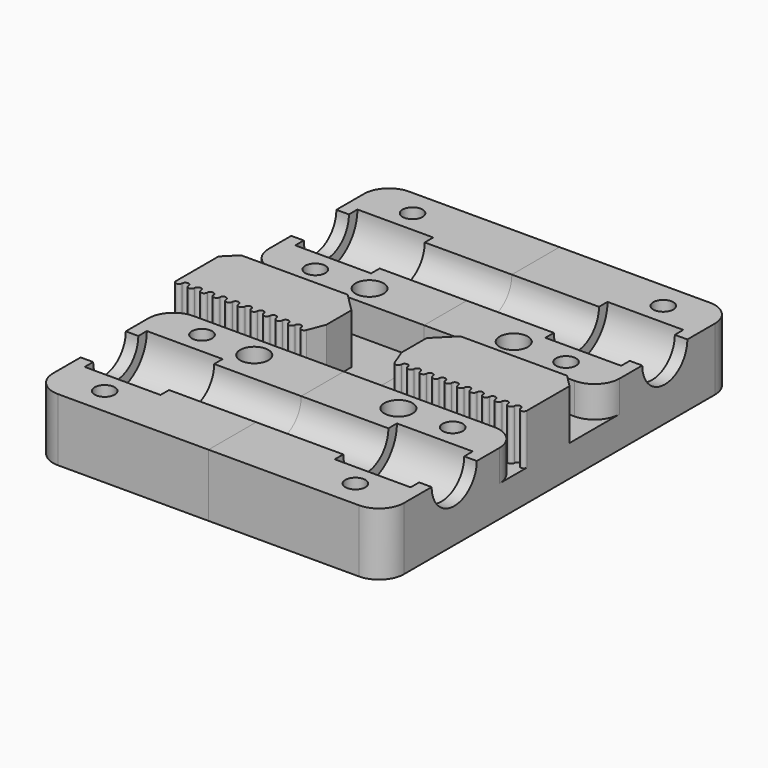
from build123d import *

# Parameters (mm, degrees)
BOX_W           = 28
BOX_H           = 35
BOX_DEPTH       = 10
POCKET_DEPTH    = 14.1
PAD_DEPTH       = 2
SKETCH002_R     = 4.5
POCKET001_DEPTH = 28.001
SKETCH003_R     = 2.25
SKETCH003_R_2   = 1.6
POCKET002_DEPTH = 10.001
SKETCH004_R     = 2.9
POCKET003_DEPTH = 3.5
SKETCH005_W     = 28
SKETCH005_H     = 4
POCKET004_DEPTH = 5
SKETCH006_W     = 6
SKETCH006_H     = 4
POCKET005_DEPTH = 5
SKETCH007_W     = 22
SKETCH007_H     = 4
PAD001_DEPTH    = 3
PAD002_DEPTH    = 8
FILLET_R        = 4
FILLET001_R     = 4
CHAMFER_SIZE    = 2
CHAMFER001_SIZE = 3
FILLET002_R     = 4
FILLET003_R     = 4


with BuildPart() as pad001:
    # Box → Box (new body)
    with BuildSketch(Plane.XY):
        with Locations((14, 17.5)):
            Rectangle(BOX_W, BOX_H)
    extrude(amount=BOX_DEPTH)

    # Sketch → Pocket (cut)
    with BuildSketch(Plane.YZ.offset(28)):
        with BuildLine():
            ThreePointArc((14.8, 10), (21, 3.8), (27.2, 10))
            Line((14.8, 10), (27.2, 10))
        make_face()
    extrude(amount=-POCKET_DEPTH, mode=Mode.SUBTRACT)

    # Sketch001 → Pad (new body)
    with BuildSketch(Plane.YZ.offset(28)):
        with BuildLine():
            ThreePointArc((14.8, 10), (21, 3.8), (27.2, 10))
            Line((14.8, 10), (27.2, 10))
        make_face()
    extrude(amount=-PAD_DEPTH)

    # Sketch002 → Pocket001 (cut, through all)
    with BuildSketch(Plane.YZ.offset(28)):
        with Locations((21, 10)):
            Circle(SKETCH002_R)
    extrude(amount=-POCKET001_DEPTH, mode=Mode.SUBTRACT)

    # Sketch003 → Pocket002 (cut, through all)
    with BuildSketch(Plane.XY.offset(10)):
        with Locations((11.5, 11.5)):
            Circle(SKETCH003_R)
        with Locations((20, 30.7)):
            Circle(SKETCH003_R_2)
        with Locations((20, 11.3)):
            Circle(SKETCH003_R_2)
    extrude(amount=-POCKET002_DEPTH, mode=Mode.SUBTRACT)

    # Sketch004 → Pocket003 (cut)
    with BuildSketch(Plane(origin=(0, 0, 0), x_dir=(1, 0, 0), z_dir=(0, 0, -1))):
        with Locations((20, -10.8)):
            Circle(SKETCH004_R)
        with Locations((20, -31.2)):
            Circle(SKETCH004_R)
    extrude(amount=-POCKET003_DEPTH, mode=Mode.SUBTRACT)

    # Sketch005 → Pocket004 (cut)
    with BuildSketch(Plane.XY.offset(10)):
        with Locations((14, 6)):
            Rectangle(SKETCH005_W, SKETCH005_H)
    extrude(amount=-POCKET004_DEPTH, mode=Mode.SUBTRACT)

    # Sketch006 → Pocket005 (cut)
    with BuildSketch(Plane.XY.offset(10)):
        with Locations((3, 2)):
            Rectangle(SKETCH006_W, SKETCH006_H)
    extrude(amount=-POCKET005_DEPTH, mode=Mode.SUBTRACT)

    # Sketch007 → Pad001 (new body)
    with BuildSketch(Plane.XY.offset(10)):
        with Locations((17, 2)):
            Rectangle(SKETCH007_W, SKETCH007_H)
    extrude(amount=PAD001_DEPTH)


with BuildPart() as part_mirroring:
    # Part__Mirroring: instance of Pad001
    add(pad001.part.mirror(Plane(origin=(0, 0, 0), x_dir=(1, 0, 0), z_dir=(0, 1, 0))))


with BuildPart() as fillet003:
    # Fusion base: copy of Pad001
    add(pad001.part)

    # Fusion: union Part__Mirroring
    add(part_mirroring.part)

    # Sketch008 → Pad002 (new body)
    with BuildSketch(Plane.XY.offset(13)):
        with BuildLine():
            ThreePointArc((11, -6.5), (11.5, -7), (12, -6.5))
            ThreePointArc((13, -6.5), (12.5, -6), (12, -6.5))
            ThreePointArc((13, -6.5), (13.5, -7), (14, -6.5))
            ThreePointArc((15, -6.5), (14.5, -6), (14, -6.5))
            ThreePointArc((15, -6.5), (15.5, -7), (16, -6.5))
            ThreePointArc((17, -6.5), (16.5, -6), (16, -6.5))
            ThreePointArc((17, -6.5), (17.5, -7), (18, -6.5))
            ThreePointArc((19, -6.5), (18.5, -6), (18, -6.5))
            ThreePointArc((19, -6.5), (19.5, -7), (20, -6.5))
            ThreePointArc((21, -6.5), (20.5, -6), (20, -6.5))
            ThreePointArc((21, -6.5), (21.5, -7), (22, -6.5))
            ThreePointArc((23, -6.5), (22.5, -6), (22, -6.5))
            ThreePointArc((23, -6.5), (23.5, -7), (24, -6.5))
            ThreePointArc((25, -6.5), (24.5, -6), (24, -6.5))
            ThreePointArc((25, -6.5), (25.5, -7), (26, -6.5))
            ThreePointArc((27, -6.5), (26.5, -6), (26, -6.5))
            ThreePointArc((27, -6.5), (27.5, -7), (28, -6.5))
            Line((28, -4), (28, -6.5))
            Line((6, -4), (28, -4))
            Line((6, -4), (7.033486, -6.679901))
            ThreePointArc((7.033486, -6.679901), (7.591495, -6.991557), (8, -6.5))
            ThreePointArc((9, -6.5), (8.5, -6), (8, -6.5))
            ThreePointArc((9, -6.5), (9.5, -7), (10, -6.5))
            ThreePointArc((11, -6.5), (10.5, -6), (10, -6.5))
        make_face()
    extrude(amount=-PAD002_DEPTH)

    # Fillet
    fillet_edges = [fillet003.edges().sort_by_distance(p)[0] for p in [
        (28, 35, 5),
    ]]
    fillet(fillet_edges, radius=FILLET_R)

    # Fillet001
    fillet001_edges = [fillet003.edges().sort_by_distance(p)[0] for p in [
        (28, 8, 7.5),
    ]]
    fillet(fillet001_edges, radius=FILLET001_R)

    # Chamfer
    chamfer_edges = [fillet003.edges().sort_by_distance(p)[0] for p in [
        (28, 4, 7.5),
    ]]
    chamfer(chamfer_edges, length=CHAMFER_SIZE)

    # Chamfer001
    chamfer001_edges = [fillet003.edges().sort_by_distance(p)[0] for p in [
        (6, 4, 7.5),
    ]]
    chamfer(chamfer001_edges, length=CHAMFER001_SIZE)

    # Fillet002
    fillet002_edges = [fillet003.edges().sort_by_distance(p)[0] for p in [
        (28, -8, 7.5),
    ]]
    fillet(fillet002_edges, radius=FILLET002_R)

    # Fillet003
    fillet003_edges = [fillet003.edges().sort_by_distance(p)[0] for p in [
        (28, -35, 5),
    ]]
    fillet(fillet003_edges, radius=FILLET003_R)


with BuildPart() as fusion001:
    # Part__Mirroring001: instance of Fillet003
    add(fillet003.part.mirror(Plane(origin=(0, 0, 0), x_dir=(0, -1, 0), z_dir=(1, 0, 0))))

    # Fusion001: union Fillet003
    add(fillet003.part)


solid = fusion001.part
